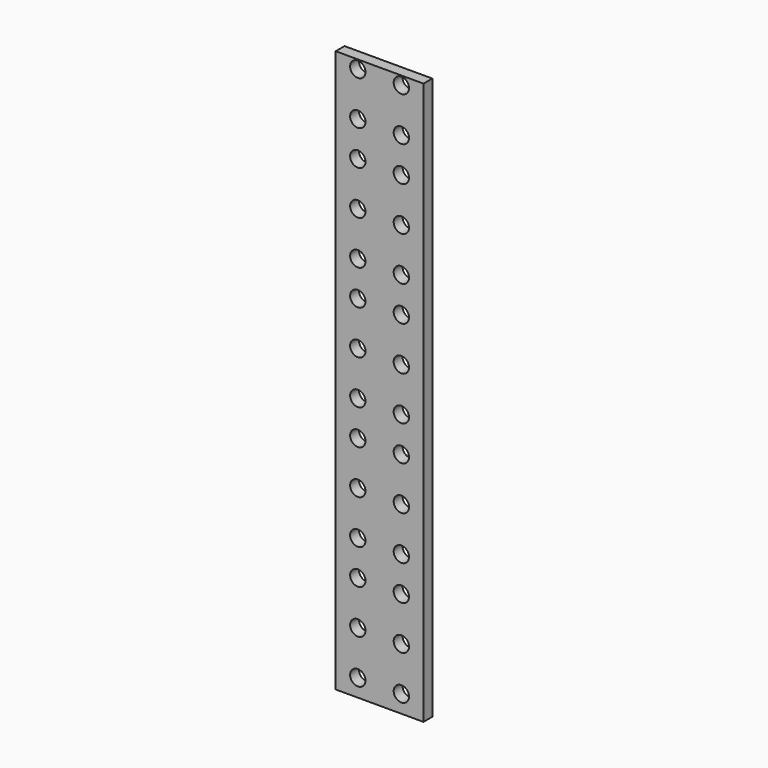
from build123d import *

# Parameters (mm, degrees)
SKETCH_W         = 15.875
SKETCH_H         = 203.2
SKETCH_R         = 2.775
PAD_DEPTH        = 4
MIRROREDSKETCH_W = 15.875
MIRROREDSKETCH_H = 203.2
MIRROREDSKETCH_R = 2.775
PAD001_DEPTH     = 4


with BuildPart() as part:
    # Sketch → Pad (new body)
    with BuildSketch(Plane.XZ):
        with Locations((7.9375, 101.6)):
            Rectangle(SKETCH_W, SKETCH_H)
        with Locations((7.874, 6.35)):
            Circle(SKETCH_R, mode=Mode.SUBTRACT)
        with Locations((7.874, 22.23)):
            Circle(SKETCH_R, mode=Mode.SUBTRACT)
        with Locations((7.874, 38.11)):
            Circle(SKETCH_R, mode=Mode.SUBTRACT)
        with Locations((7.874, 50.81)):
            Circle(SKETCH_R, mode=Mode.SUBTRACT)
        with Locations((7.874, 66.69)):
            Circle(SKETCH_R, mode=Mode.SUBTRACT)
        with Locations((7.874, 82.57)):
            Circle(SKETCH_R, mode=Mode.SUBTRACT)
        with Locations((7.874, 95.27)):
            Circle(SKETCH_R, mode=Mode.SUBTRACT)
        with Locations((7.874, 111.15)):
            Circle(SKETCH_R, mode=Mode.SUBTRACT)
        with Locations((7.874, 127.03)):
            Circle(SKETCH_R, mode=Mode.SUBTRACT)
        with Locations((7.874, 139.73)):
            Circle(SKETCH_R, mode=Mode.SUBTRACT)
        with Locations((7.874, 155.61)):
            Circle(SKETCH_R, mode=Mode.SUBTRACT)
        with Locations((7.874, 171.49)):
            Circle(SKETCH_R, mode=Mode.SUBTRACT)
        with Locations((7.874, 184.19)):
            Circle(SKETCH_R, mode=Mode.SUBTRACT)
        with Locations((7.874, 200.065)):
            Circle(SKETCH_R, mode=Mode.SUBTRACT)
    extrude(amount=PAD_DEPTH)

    # MirroredSketch → Pad001 (join)
    with BuildSketch(Plane.XZ):
        with Locations((-7.9375, 101.6)):
            Rectangle(MIRROREDSKETCH_W, MIRROREDSKETCH_H)
        with Locations((-7.874, 6.35)):
            Circle(MIRROREDSKETCH_R, mode=Mode.SUBTRACT)
        with Locations((-7.874, 22.23)):
            Circle(MIRROREDSKETCH_R, mode=Mode.SUBTRACT)
        with Locations((-7.874, 38.11)):
            Circle(MIRROREDSKETCH_R, mode=Mode.SUBTRACT)
        with Locations((-7.874, 50.81)):
            Circle(MIRROREDSKETCH_R, mode=Mode.SUBTRACT)
        with Locations((-7.874, 66.69)):
            Circle(MIRROREDSKETCH_R, mode=Mode.SUBTRACT)
        with Locations((-7.874, 82.57)):
            Circle(MIRROREDSKETCH_R, mode=Mode.SUBTRACT)
        with Locations((-7.874, 95.27)):
            Circle(MIRROREDSKETCH_R, mode=Mode.SUBTRACT)
        with Locations((-7.874, 111.15)):
            Circle(MIRROREDSKETCH_R, mode=Mode.SUBTRACT)
        with Locations((-7.874, 127.03)):
            Circle(MIRROREDSKETCH_R, mode=Mode.SUBTRACT)
        with Locations((-7.874, 139.73)):
            Circle(MIRROREDSKETCH_R, mode=Mode.SUBTRACT)
        with Locations((-7.874, 155.61)):
            Circle(MIRROREDSKETCH_R, mode=Mode.SUBTRACT)
        with Locations((-7.874, 171.49)):
            Circle(MIRROREDSKETCH_R, mode=Mode.SUBTRACT)
        with Locations((-7.874, 184.19)):
            Circle(MIRROREDSKETCH_R, mode=Mode.SUBTRACT)
        with Locations((-7.874, 200.065)):
            Circle(MIRROREDSKETCH_R, mode=Mode.SUBTRACT)
    extrude(amount=PAD001_DEPTH)


solid = part.part
